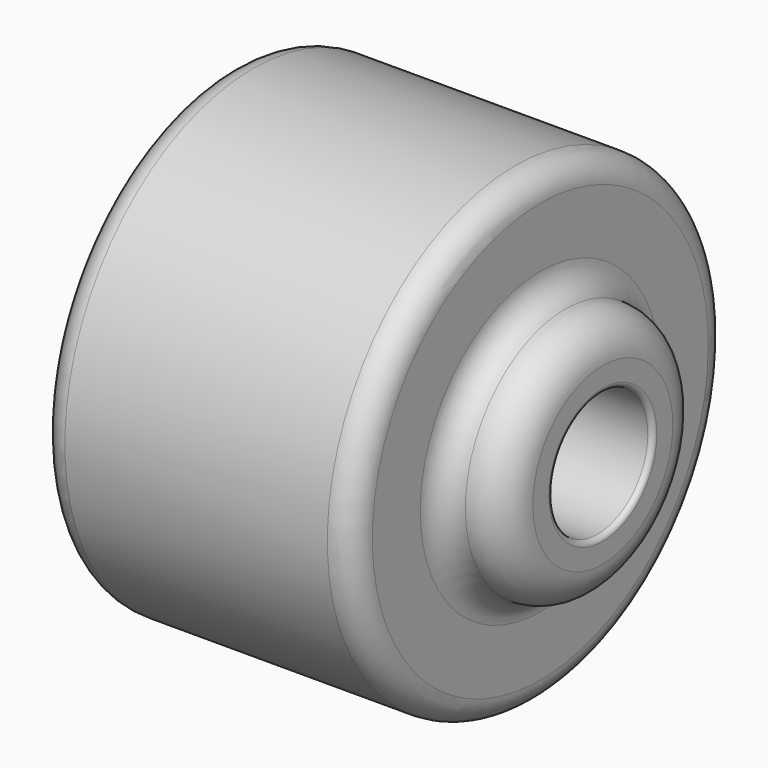
from build123d import *


with BuildPart() as f1:
    # F0 (on Front) → F1 (revolve)
    with BuildSketch(Plane.XZ):
        with BuildLine():
            Line((0.2, 2.5), (4.8, 2.5))
            ThreePointArc((4.8, 2.5), (4.941421, 2.558579), (5, 2.7))
            Line((5, 2.7), (5, 3.5))
            ThreePointArc((5, 3.5), (4.56066, 4.56066), (3.5, 5))
            ThreePointArc((3.5, 5), (2.792893, 5.292893), (2.5, 6))
            Line((2.5, 6), (2.5, 8.4))
            ThreePointArc((2.5, 8.4), (2.207107, 9.107107), (1.5, 9.4))
            Line((1.5, 9.4), (-9, 9.4))
            ThreePointArc((-9, 9.4), (-9.707107, 9.107107), (-10, 8.4))
            Line((-10, 8.4), (-10, 5.2))
            ThreePointArc((-10, 5.2), (-9.941421, 5.058579), (-9.8, 5))
            Line((-9.8, 5), (-0.2, 5))
            ThreePointArc((-0.2, 5), (-0.058579, 4.941421), (0, 4.8))
            Line((0, 4.8), (0, 2.7))
            ThreePointArc((0, 2.7), (0.058579, 2.558579), (0.2, 2.5))
        make_face()
    revolve(axis=Axis((5, 0, 0), (1, 0, 0)))


solid = f1.part
